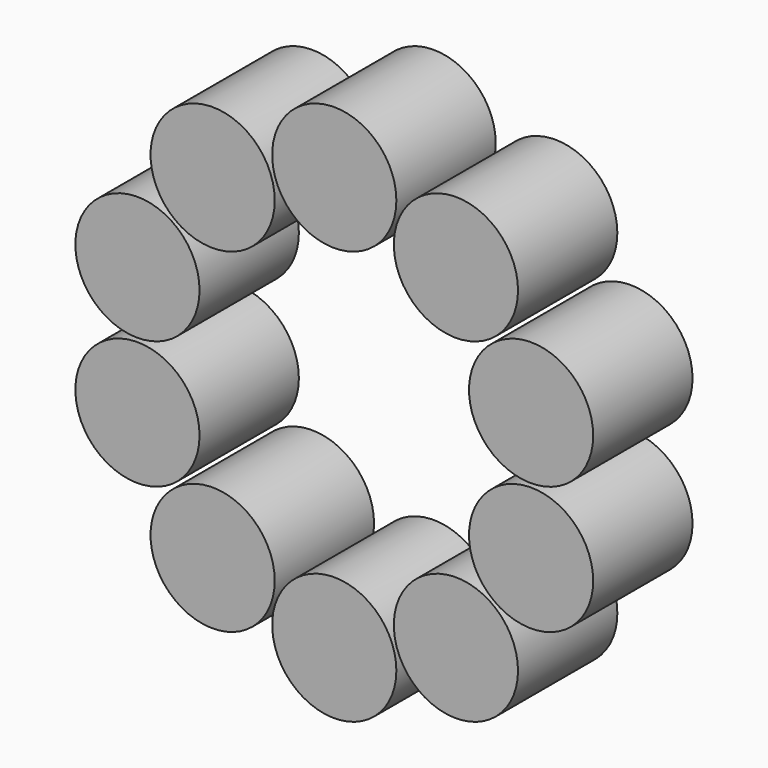
from build123d import *

# Parameters (mm, degrees)
F0_R     = 1.5
F1_DEPTH = 3


with BuildPart() as f1:
    # F0 (on Front) → F1 (new body)
    with BuildSketch(Plane.XZ):
        with Locations((0, -5)):
            Circle(F0_R)
        with Locations((2.938926, -4.045085)):
            Circle(F0_R)
        with Locations((4.755283, -1.545085)):
            Circle(F0_R)
        with Locations((4.755283, 1.545085)):
            Circle(F0_R)
        with Locations((2.938926, 4.045085)):
            Circle(F0_R)
        with Locations((0, 5)):
            Circle(F0_R)
        with Locations((-2.938926, 4.045085)):
            Circle(F0_R)
        with Locations((-4.755283, 1.545085)):
            Circle(F0_R)
        with Locations((-4.755283, -1.545085)):
            Circle(F0_R)
        with Locations((-2.938926, -4.045085)):
            Circle(F0_R)
    extrude(amount=F1_DEPTH)


solid = f1.part
